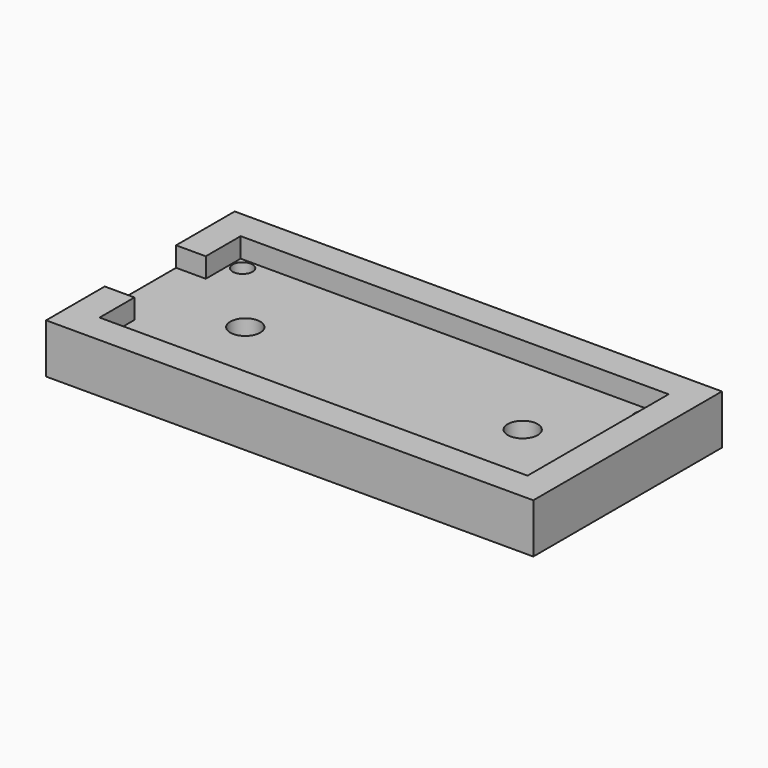
from build123d import *

# Parameters (mm, degrees)
BOX_W           = 49.18
BOX_H           = 23.8
BOX_DEPTH       = 5
SKETCH_W        = 43.2
SKETCH_H        = 17.8
POCKET_DEPTH    = 2
SKETCH001_W     = 3
SKETCH001_H     = 9
POCKET001_DEPTH = 2
SKETCH004_R     = 1
POCKET005_DEPTH = 5
SKETCH005_R     = 1.51127
POCKET006_DEPTH = 5


with BuildPart() as part:
    # Box → Box (new body)
    with BuildSketch(Plane.XY):
        with Locations((24.59, 11.9)):
            Rectangle(BOX_W, BOX_H)
    extrude(amount=BOX_DEPTH)

    # Sketch → Pocket (cut)
    with BuildSketch(Plane.XY.offset(5)):
        with Locations((24.6, 11.9)):
            Rectangle(SKETCH_W, SKETCH_H)
    extrude(amount=-POCKET_DEPTH, mode=Mode.SUBTRACT)

    # Sketch001 → Pocket001 (cut)
    with BuildSketch(Plane.XY.offset(5)):
        with Locations((1.5, 11.9)):
            Rectangle(SKETCH001_W, SKETCH001_H)
    extrude(amount=-POCKET001_DEPTH, mode=Mode.SUBTRACT)

    # Sketch004 → Pocket005 (cut)
    with BuildSketch(Plane.XY.offset(3)):
        with Locations((44.722157, 19.634458)):
            Circle(SKETCH004_R)
        with Locations((44.722157, 4.622099)):
            Circle(SKETCH004_R)
        with Locations((4.133191, 19.634458)):
            Circle(SKETCH004_R)
        with Locations((4.133191, 4.622099)):
            Circle(SKETCH004_R)
    extrude(amount=-POCKET005_DEPTH, mode=Mode.SUBTRACT)

    # Sketch005 → Pocket006 (cut)
    with BuildSketch(Plane(origin=(0, 0, 0), x_dir=(1, 0, 0), z_dir=(0, 0, -1))):
        with Locations((10.59, -11.9)):
            Circle(SKETCH005_R)
        with Locations((38.59, -11.9)):
            Circle(SKETCH005_R)
    extrude(amount=-POCKET006_DEPTH, mode=Mode.SUBTRACT)


solid = part.part
